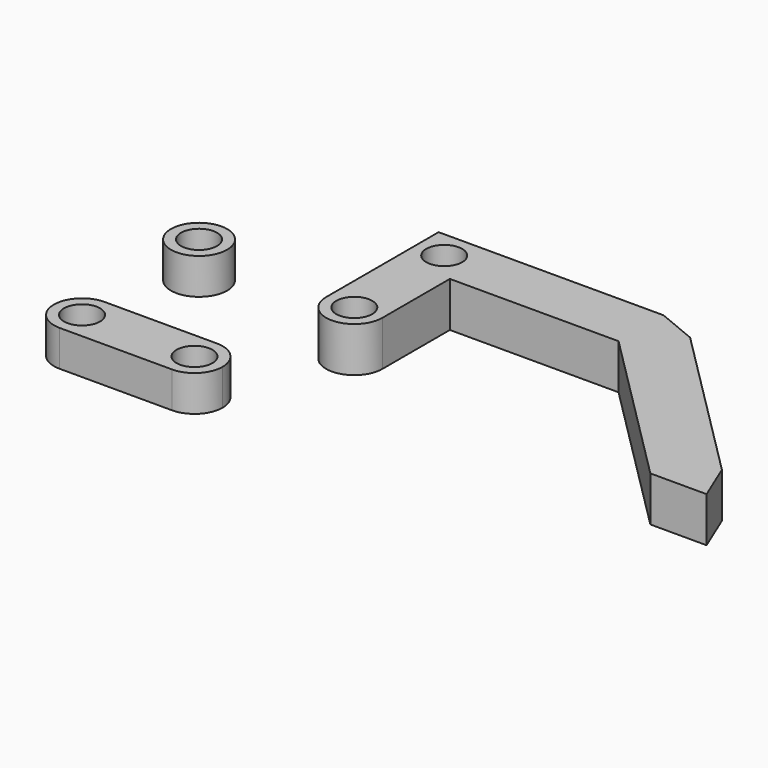
from build123d import *

# Parameters (mm, degrees)
F0_R     = 1.6
F1_DEPTH = 4
F2_DEPTH = 3.2
F0_R_2   = 2.5
F3_DEPTH = 3.2


with BuildPart() as f1:
    # F0 (on Top) → F1 (new body)
    with BuildSketch(Plane.XY):
        with BuildLine():
            Line((0, 8.984046), (0, 16.484046))
            Line((0, 16.484046), (15, 16.484046))
            Line((15, 16.484046), (29.142136, 2.34191))
            Line((29.142136, 2.34191), (34.142136, 2.34191))
            Line((34.142136, 2.34191), (32.67767, 5.877444))
            Line((32.67767, 5.877444), (18.535534, 20.01958))
            Line((18.535534, 20.01958), (15, 21.484046))
            Line((15, 21.484046), (0, 21.484046))
            Line((0, 21.484046), (-5, 21.484046))
            Line((-5, 21.484046), (-5, 16.484046))
            Line((-5, 16.484046), (-5, 8.984046))
            ThreePointArc((-5, 8.984046), (-2.5, 11.484046), (0, 8.984046))
        make_face()
        with Locations((-2.5, 18.984046)):
            Circle(F0_R, mode=Mode.SUBTRACT)
        with BuildLine():
            ThreePointArc((-5, 8.984046), (-2.5, 6.484046), (0, 8.984046))
            ThreePointArc((0, 8.984046), (-2.5, 11.484046), (-5, 8.984046))
        make_face()
        with Locations((-2.5, 8.984046)):
            Circle(F0_R, mode=Mode.SUBTRACT)
    extrude(amount=F1_DEPTH)


with BuildPart() as f2:
    # F0 (on Top) → F2 (new body)
    with BuildSketch(Plane.XY):
        with BuildLine():
            ThreePointArc((-7.51958, -5), (-5.751813, -4.267767), (-5.01958, -2.5))
            ThreePointArc((-5.01958, -2.5), (-5.751813, -0.732233), (-7.51958, 0))
            ThreePointArc((-7.51958, 0), (-10.01958, -2.5), (-7.51958, -5))
        make_face()
        with Locations((-7.51958, -2.5)):
            Circle(F0_R, mode=Mode.SUBTRACT)
        with BuildLine():
            ThreePointArc((-7.51958, -5), (-10.01958, -2.5), (-7.51958, 0))
            Line((-7.51958, 0), (-17.51958, 0))
            ThreePointArc((-17.51958, 0), (-15.751813, -0.732233), (-15.01958, -2.5))
            ThreePointArc((-15.01958, -2.5), (-15.751813, -4.267767), (-17.51958, -5))
            Line((-17.51958, -5), (-7.51958, -5))
        make_face()
        with BuildLine():
            ThreePointArc((-15.01958, -2.5), (-15.751813, -0.732233), (-17.51958, 0))
            ThreePointArc((-17.51958, 0), (-20.01958, -2.5), (-17.51958, -5))
            ThreePointArc((-17.51958, -5), (-15.751813, -4.267767), (-15.01958, -2.5))
        make_face()
        with Locations((-17.51958, -2.5)):
            Circle(F0_R, mode=Mode.SUBTRACT)
    extrude(amount=F2_DEPTH)


with BuildPart() as f3:
    # F0 (on Top) → F3 (new body)
    with BuildSketch(Plane.XY):
        with Locations((-18.270541, 11.445943)):
            Circle(F0_R_2)
        with Locations((-18.270541, 11.445943)):
            Circle(F0_R, mode=Mode.SUBTRACT)
    extrude(amount=F3_DEPTH)


solid = Compound([f1.part, f2.part, f3.part])
